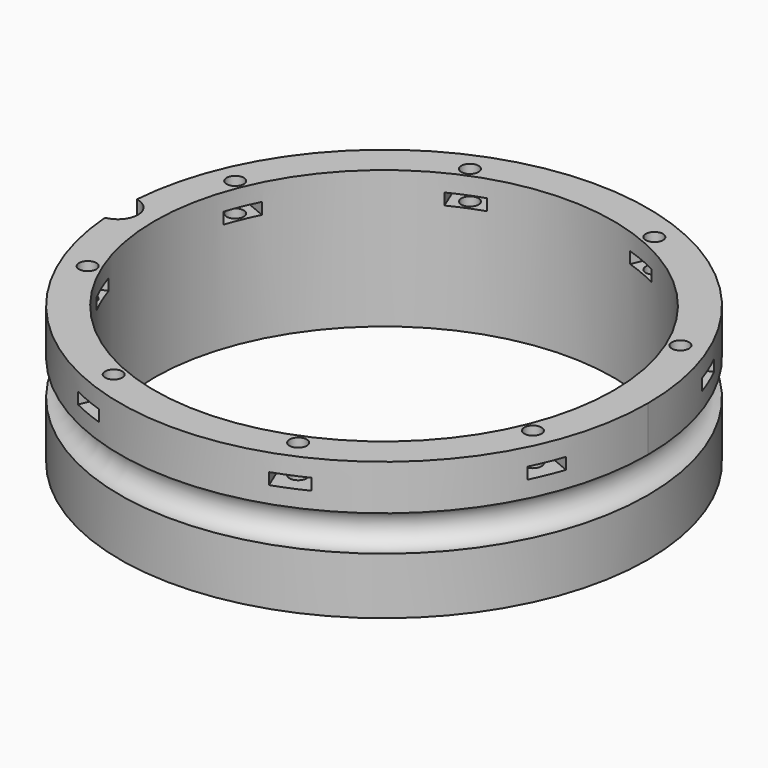
from build123d import *

# Parameters (mm, degrees)
BOX421_W                     = 6
BOX421_H                     = 8
BOX421_DEPTH                 = 2
BOX421_PLACEMENT_ANGLE       = 45
BOX419_W                     = 6
BOX419_H                     = 8
BOX419_DEPTH                 = 2
BOX418_W                     = 6
BOX418_H                     = 8
BOX418_DEPTH                 = 2
BOX423_W                     = 6
BOX423_H                     = 8
BOX423_DEPTH                 = 2
BOX423_PLACEMENT_ANGLE       = 135
BOX422_W                     = 6
BOX422_H                     = 8
BOX422_DEPTH                 = 2
BOX417_W                     = 6
BOX417_H                     = 8
BOX417_DEPTH                 = 2
BOX417_PLACEMENT_ANGLE       = 225
BOX420_W                     = 6
BOX420_H                     = 8
BOX420_DEPTH                 = 2
BOX413_W                     = 6
BOX413_H                     = 8
BOX413_DEPTH                 = 2
BOX413_PLACEMENT_ANGLE       = 45
COMPOUND862_PLACEMENT_ANGLE  = 22.5
CYLINDER1113_R               = 1.5
CYLINDER1113_DEPTH           = 32
CYLINDER1113_PLACEMENT_ANGLE = 45
CYLINDER1112_R               = 1.5
CYLINDER1112_DEPTH           = 32
CYLINDER1111_R               = 1.5
CYLINDER1111_DEPTH           = 32
CYLINDER1111_PLACEMENT_ANGLE = 135
CYLINDER1103_R               = 1.5
CYLINDER1103_DEPTH           = 32
CYLINDER1109_R               = 1.5
CYLINDER1109_DEPTH           = 32
CYLINDER1109_PLACEMENT_ANGLE = 225
CYLINDER1110_R               = 1.5
CYLINDER1110_DEPTH           = 32
CYLINDER1098_R               = 1.5
CYLINDER1098_DEPTH           = 32
CYLINDER1098_PLACEMENT_ANGLE = 45
CYLINDER1101_R               = 1.5
CYLINDER1101_DEPTH           = 32
COMPOUND864_PLACEMENT_ANGLE  = 22.5
CYLINDER1094_R               = 3.5
CYLINDER1094_DEPTH           = 20
TORUS008_R                   = 3.1
TUBE098_R                    = 46
TUBE098_R_2                  = 40
TUBE098_DEPTH                = 24


with BuildPart() as krychle421:
    # Box421 → Box421 (new body)
    with BuildSketch(Plane.XY):
        with Locations((3, 4)):
            Rectangle(BOX421_W, BOX421_H)
    extrude(amount=BOX421_DEPTH)


with BuildPart() as krychle421_1:
    # Box421 placement: moved
    add(krychle421.part.moved(Location((30.405592, -34.648232, 33))).rotate(Axis((30.405592, -34.648232, 33), (0, 0, 1)), BOX421_PLACEMENT_ANGLE))


with BuildPart() as krychle419:
    # Box419 → Box419 (new body)
    with BuildSketch(Plane(origin=(46, -3, 33), x_dir=(0, 1, 0), z_dir=(0, 0, 1))):
        with Locations((3, 4)):
            Rectangle(BOX419_W, BOX419_H)
    extrude(amount=BOX419_DEPTH)


with BuildPart() as krychle418:
    # Box418 → Box418 (new body)
    with BuildSketch(Plane(origin=(-3, -46, 33), x_dir=(1, 0, 0), z_dir=(0, 0, 1))):
        with Locations((3, 4)):
            Rectangle(BOX418_W, BOX418_H)
    extrude(amount=BOX418_DEPTH)


with BuildPart() as krychle423:
    # Box423 → Box423 (new body)
    with BuildSketch(Plane.XY):
        with Locations((3, 4)):
            Rectangle(BOX423_W, BOX423_H)
    extrude(amount=BOX423_DEPTH)


with BuildPart() as krychle423_1:
    # Box423 placement: moved
    add(krychle423.part.moved(Location((34.648232, 30.405592, 33))).rotate(Axis((34.648232, 30.405592, 33), (0, 0, 1)), BOX423_PLACEMENT_ANGLE))


with BuildPart() as krychle422:
    # Box422 → Box422 (new body)
    with BuildSketch(Plane(origin=(3, 46, 33), x_dir=(-1, 0, 0), z_dir=(0, 0, 1))):
        with Locations((3, 4)):
            Rectangle(BOX422_W, BOX422_H)
    extrude(amount=BOX422_DEPTH)


with BuildPart() as krychle417:
    # Box417 → Box417 (new body)
    with BuildSketch(Plane.XY):
        with Locations((3, 4)):
            Rectangle(BOX417_W, BOX417_H)
    extrude(amount=BOX417_DEPTH)


with BuildPart() as krychle417_1:
    # Box417 placement: moved
    add(krychle417.part.moved(Location((-30.405592, 34.648232, 33))).rotate(Axis((-30.405592, 34.648232, 33), (0, 0, 1)), BOX417_PLACEMENT_ANGLE))


with BuildPart() as krychle420:
    # Box420 → Box420 (new body)
    with BuildSketch(Plane(origin=(-46, 3, 33), x_dir=(0, -1, 0), z_dir=(0, 0, 1))):
        with Locations((3, 4)):
            Rectangle(BOX420_W, BOX420_H)
    extrude(amount=BOX420_DEPTH)


with BuildPart() as compound862:
    # Box413 → Box413 (new body)
    with BuildSketch(Plane.XY):
        with Locations((3, 4)):
            Rectangle(BOX413_W, BOX413_H)
    extrude(amount=BOX413_DEPTH)


with BuildPart() as compound862_1:
    # Box413 placement: moved
    add(compound862.part.moved(Location((-34.648232, -30.405592, 33))).rotate(Axis((-34.648232, -30.405592, 33), (0, 0, -1)), BOX413_PLACEMENT_ANGLE))

    # Compound862: union Krychle421, Krychle419, Krychle418, Krychle423, Krychle422, Krychle417, Krychle420
    add(krychle421_1.part)
    add(krychle419.part)
    add(krychle418.part)
    add(krychle423_1.part)
    add(krychle422.part)
    add(krychle417_1.part)
    add(krychle420.part)


with BuildPart() as compound862_2:
    # Compound862 placement: moved
    add(compound862_1.part.moved(Location((0, 0, 7))).rotate(Axis((0, 0, 7), (0, 0, 1)), COMPOUND862_PLACEMENT_ANGLE))


with BuildPart() as obj1:
    # Cylinder1113 → Cylinder1113 (new body)
    with BuildSketch(Plane.XY):
        Circle(CYLINDER1113_R)
    extrude(amount=CYLINDER1113_DEPTH)


with BuildPart() as obj1_1:
    # Cylinder1113 placement: moved
    add(obj1.part.moved(Location((29.698485, -29.698485, 33.5))).rotate(Axis((29.698485, -29.698485, 33.5), (0, 0, 1)), CYLINDER1113_PLACEMENT_ANGLE))


with BuildPart() as obj2:
    # Cylinder1112 → Cylinder1112 (new body)
    with BuildSketch(Plane(origin=(42, 0, 33.5), x_dir=(0, 1, 0), z_dir=(0, 0, 1))):
        Circle(CYLINDER1112_R)
    extrude(amount=CYLINDER1112_DEPTH)


with BuildPart() as obj3:
    # Cylinder1111 → Cylinder1111 (new body)
    with BuildSketch(Plane.XY):
        Circle(CYLINDER1111_R)
    extrude(amount=CYLINDER1111_DEPTH)


with BuildPart() as obj3_1:
    # Cylinder1111 placement: moved
    add(obj3.part.moved(Location((29.698485, 29.698485, 33.5))).rotate(Axis((29.698485, 29.698485, 33.5), (0, 0, 1)), CYLINDER1111_PLACEMENT_ANGLE))


with BuildPart() as obj4:
    # Cylinder1103 → Cylinder1103 (new body)
    with BuildSketch(Plane(origin=(0, 42, 33.5), x_dir=(-1, 0, 0), z_dir=(0, 0, 1))):
        Circle(CYLINDER1103_R)
    extrude(amount=CYLINDER1103_DEPTH)


with BuildPart() as obj5:
    # Cylinder1109 → Cylinder1109 (new body)
    with BuildSketch(Plane.XY):
        Circle(CYLINDER1109_R)
    extrude(amount=CYLINDER1109_DEPTH)


with BuildPart() as obj5_1:
    # Cylinder1109 placement: moved
    add(obj5.part.moved(Location((-29.698485, 29.698485, 33.5))).rotate(Axis((-29.698485, 29.698485, 33.5), (0, 0, 1)), CYLINDER1109_PLACEMENT_ANGLE))


with BuildPart() as obj6:
    # Cylinder1110 → Cylinder1110 (new body)
    with BuildSketch(Plane(origin=(-42, 0, 33.5), x_dir=(0, -1, 0), z_dir=(0, 0, 1))):
        Circle(CYLINDER1110_R)
    extrude(amount=CYLINDER1110_DEPTH)


with BuildPart() as obj7:
    # Cylinder1098 → Cylinder1098 (new body)
    with BuildSketch(Plane.XY):
        Circle(CYLINDER1098_R)
    extrude(amount=CYLINDER1098_DEPTH)


with BuildPart() as obj7_1:
    # Cylinder1098 placement: moved
    add(obj7.part.moved(Location((-29.698485, -29.698485, 33.5))).rotate(Axis((-29.698485, -29.698485, 33.5), (0, 0, -1)), CYLINDER1098_PLACEMENT_ANGLE))


with BuildPart() as compound864:
    # Cylinder1101 → Cylinder1101 (new body)
    with BuildSketch(Plane(origin=(0, -42, 33.5), x_dir=(1, 0, 0), z_dir=(0, 0, 1))):
        Circle(CYLINDER1101_R)
    extrude(amount=CYLINDER1101_DEPTH)

    # Compound864: union obj1, obj2, obj3, obj4, obj5, obj6, obj7
    add(obj1_1.part)
    add(obj2.part)
    add(obj3_1.part)
    add(obj4.part)
    add(obj5_1.part)
    add(obj6.part)
    add(obj7_1.part)


with BuildPart() as compound864_1:
    # Compound864 placement: moved
    add(compound864.part.moved(Location((0, 0, 4))).rotate(Axis((0, 0, 4), (0, 0, 1)), COMPOUND864_PLACEMENT_ANGLE))


with BuildPart() as obj8:
    # Cylinder1094 → Cylinder1094 (new body)
    with BuildSketch(Plane(origin=(-46.4, 0, 34), x_dir=(1, 0, 0), z_dir=(0, 0, 1))):
        Circle(CYLINDER1094_R)
    extrude(amount=CYLINDER1094_DEPTH)


with BuildPart() as obj9:
    # Torus008 → Torus008 (revolve)
    with BuildSketch(Plane(origin=(0, 0, 34), x_dir=(1, 0, 0), z_dir=(0, -1, 0))):
        with Locations((46, 0)):
            Circle(TORUS008_R)
    revolve(axis=Axis((0, 0, 34), (0, 0, 1)))


with BuildPart() as cut411:
    # Tube098 → Tube098 (new body)
    with BuildSketch(Plane.XY.offset(21)):
        Circle(TUBE098_R)
        Circle(TUBE098_R_2, mode=Mode.SUBTRACT)
    extrude(amount=TUBE098_DEPTH)

    # Cut409: cut obj9
    add(obj9.part, mode=Mode.SUBTRACT)

    # Cut416: cut obj8
    add(obj8.part, mode=Mode.SUBTRACT)

    # Cut410: cut Compound864
    add(compound864_1.part, mode=Mode.SUBTRACT)

    # Cut411: cut Compound862
    add(compound862_2.part, mode=Mode.SUBTRACT)


solid = cut411.part
